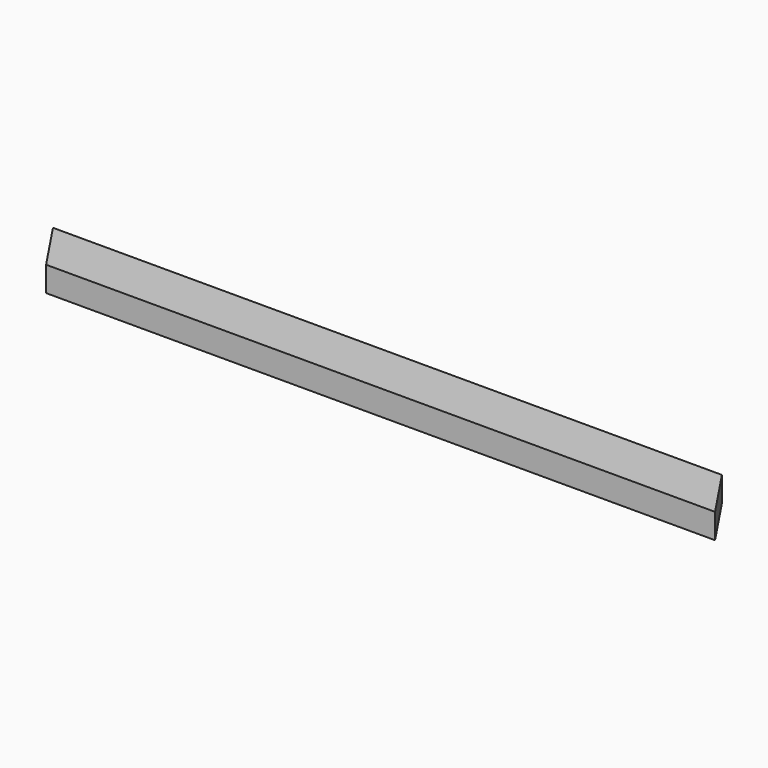
from build123d import *

# Parameters (mm, degrees)
EXTRUDE_DEPTH           = 23
EXTRUDE_PLACEMENT_ANGLE = 33.76


with BuildPart() as part:
    # Sketch → Extrude (new body)
    with BuildSketch(Plane.XY):
        Polygon((0, 0), (512, -342.262799), (512, -400), (0, -57.737201), align=None)
    extrude(amount=EXTRUDE_DEPTH)


with BuildPart() as part_1:
    # Extrude placement: moved
    add(part.part.rotate(Axis((0, 0, 0), (0, 0, 1)), EXTRUDE_PLACEMENT_ANGLE))


solid = part_1.part
